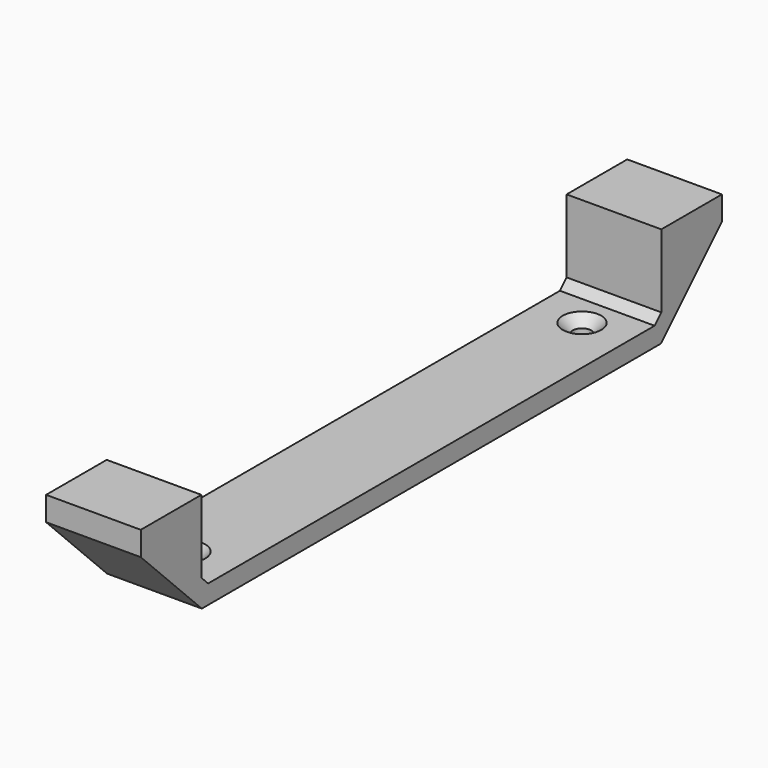
from build123d import *

# Parameters (mm, degrees)
PAD005_DEPTH        = 15
HOLE001_D           = 3
HOLE001_DEPTH       = 25
HOLE001_CSINK_D     = 6.1
HOLE001_CSINK_ANGLE = 90
HOLE_D              = 3
HOLE_DEPTH          = 25
HOLE_CSINK_D        = 6.1
HOLE_CSINK_ANGLE    = 90


with BuildPart() as part:
    # Sketch005 (on Face53 of Binder002) → Pad005 (new body)
    with BuildSketch(Plane(origin=(87.2, 0, 0), x_dir=(0, -1, 0), z_dir=(-1, 0, 0))):
        Polygon((-57.53, -4.827157), (-57.53, -1.01), (-45.53, -1.01), (-45.53, -12.584517), (-44.204517, -13.91), (0, -13.91), (0, -16.91), (-45.447157, -16.91), align=None)
    pad005 = extrude(amount=PAD005_DEPTH)

    # Mirrored: Pad005 across Sketch005 V_Axis
    add(pad005.mirror(Plane(origin=(87.2, 0, 0), x_dir=(-1, 0, 0), z_dir=(0, -1, 0))))

    # Hole001
    with Locations(Plane.XY.offset(-13.91)):
        with Locations((79.7, 39.204517), (79.7, -39.204517)):
            CounterSinkHole(HOLE001_D / 2, HOLE001_CSINK_D / 2, depth=HOLE001_DEPTH, counter_sink_angle=HOLE001_CSINK_ANGLE)

    # Hole
    with Locations(Plane.XY.offset(-13.91)):
        with Locations((79.7, 39.204517), (79.7, -39.204517)):
            CounterSinkHole(HOLE_D / 2, HOLE_CSINK_D / 2, depth=HOLE_DEPTH, counter_sink_angle=HOLE_CSINK_ANGLE)


with BuildPart() as part_1:
    # Body003 placement: moved
    add(part.part.moved(Location((-125, 0, 0))))


solid = part_1.part
